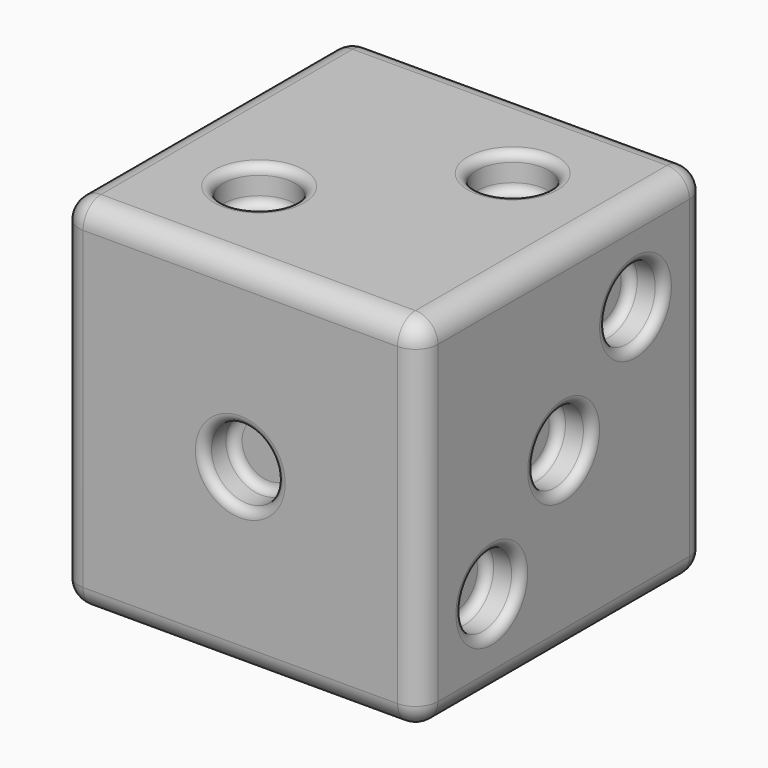
from build123d import *

# Parameters (mm, degrees)
F2_W      = 20
F2_H      = 20
F3_DEPTH  = 20
F4_R      = 2
F10_DEPTH = 2
F5_R      = 2
F11_DEPTH = 2
F8_R      = 2
F12_DEPTH = 2
F9_R      = 2
F13_DEPTH = 2
F7_R      = 2
F14_DEPTH = 2
F6_R      = 2
F15_DEPTH = 2
F16_R     = 0.5
F17_R     = 1.25


with BuildPart() as f3:
    # F2 (on Top) → F3 (new body)
    with BuildSketch(Plane.XY):
        Rectangle(F2_W, F2_H)
    extrude(amount=F3_DEPTH)

    # F4 (on face) → F10 (cut)
    with BuildSketch(Plane.XZ.offset(10)):
        with Locations((0, 10)):
            Circle(F4_R)
    extrude(amount=-F10_DEPTH, mode=Mode.SUBTRACT)

    # F5 (on face) → F11 (cut)
    with BuildSketch(Plane.XY.offset(20)):
        with Locations((-3.8601454029, -3.8601454029)):
            Circle(F5_R)
        with Locations((3.9799973459, 3.9799973459)):
            Circle(F5_R)
    extrude(amount=-F11_DEPTH, mode=Mode.SUBTRACT)

    # F8 (on face) → F12 (cut)
    with BuildSketch(Plane.YZ.offset(10)):
        with Locations((-5, 5)):
            Circle(F8_R)
        with Locations((5, 15)):
            Circle(F8_R)
        with Locations((0, 10)):
            Circle(F8_R)
    extrude(amount=-F12_DEPTH, mode=Mode.SUBTRACT)

    # F9 (on face) → F13 (cut)
    with BuildSketch(Plane(origin=(-10, 0, 0), x_dir=(0, -1, 0), z_dir=(-1, 0, 0))):
        with Locations((-5, 15)):
            Circle(F9_R)
        with Locations((5, 15)):
            Circle(F9_R)
        with Locations((5, 5)):
            Circle(F9_R)
        with Locations((-5, 5)):
            Circle(F9_R)
    extrude(amount=-F13_DEPTH, mode=Mode.SUBTRACT)

    # F7 (on face) → F14 (cut)
    with BuildSketch(Plane(origin=(0, 0, 0), x_dir=(1, 0, 0), z_dir=(0, 0, -1))):
        with Locations((-5, -5)):
            Circle(F7_R)
        with Locations((5, -5)):
            Circle(F7_R)
        Circle(F7_R)
        with Locations((-5, 5)):
            Circle(F7_R)
        with Locations((5, 5)):
            Circle(F7_R)
    extrude(amount=-F14_DEPTH, mode=Mode.SUBTRACT)

    # F6 (on face) → F15 (cut)
    with BuildSketch(Plane(origin=(0, 10, 0), x_dir=(-1, 0, 0), z_dir=(0, 1, 0))):
        with Locations((4.5, 16)):
            Circle(F6_R)
        with Locations((4.5, 10)):
            Circle(F6_R)
        with Locations((4.5, 4)):
            Circle(F6_R)
        with Locations((-4.5, 4)):
            Circle(F6_R)
        with Locations((-4.5, 10)):
            Circle(F6_R)
        with Locations((-4.5, 16)):
            Circle(F6_R)
    extrude(amount=-F15_DEPTH, mode=Mode.SUBTRACT)

    # F16
    f16_edges = [f3.edges().sort_by_distance(p)[0] for p in [
        (1.979997, 3.979997, 20),
        (-5.860145, -3.860145, 20),
        (1.979997, 3.979997, 18),
        (-5.860145, -3.860145, 18),
        (-2, -8, 10),
        (-2, -10, 10),
        (8, 3, 15),
        (10, 3, 15),
        (8, -2, 10),
        (10, -2, 10),
        (8, -7, 5),
        (10, -7, 5),
        (6.5, 8, 16),
        (-2.5, 8, 16),
        (-2.5, 10, 16),
        (6.5, 10, 16),
        (6.5, 8, 10),
        (6.5, 10, 10),
        (-2.5, 8, 10),
        (-2.5, 10, 10),
        (-2.5, 8, 4),
        (-2.5, 10, 4),
        (6.5, 8, 4),
        (6.5, 10, 4),
        (-8, 7, 15),
        (-10, 7, 15),
        (-8, -3, 15),
        (-10, -3, 15),
        (-8, 7, 5),
        (-10, 7, 5),
        (-8, -3, 5),
        (-10, -3, 5),
        (-7, 5, 2),
        (-7, 5, 0),
        (-2, 0, 2),
        (-2, 0, 0),
        (-7, -5, 2),
        (-3, -5, 1),
        (-7, -5, 0),
        (3, -5, 2),
        (3, -5, 0),
        (3, 5, 2),
        (3, 5, 0),
    ]]
    fillet(f16_edges, radius=F16_R)

    # F17
    f17_edges = [f3.edges().sort_by_distance(p)[0] for p in [
        (10, 10, 10),
        (10, 0, 0),
        (0, 10, 0),
        (10, 0, 20),
        (10, -10, 10),
        (0, -10, 0),
        (-10, 0, 0),
        (0, -10, 20),
        (-10, -10, 10),
        (-10, 0, 20),
        (0, 10, 20),
        (-10, 10, 10),
        (-7.5, 5, 0),
    ]]
    fillet(f17_edges, radius=F17_R)


solid = f3.part
